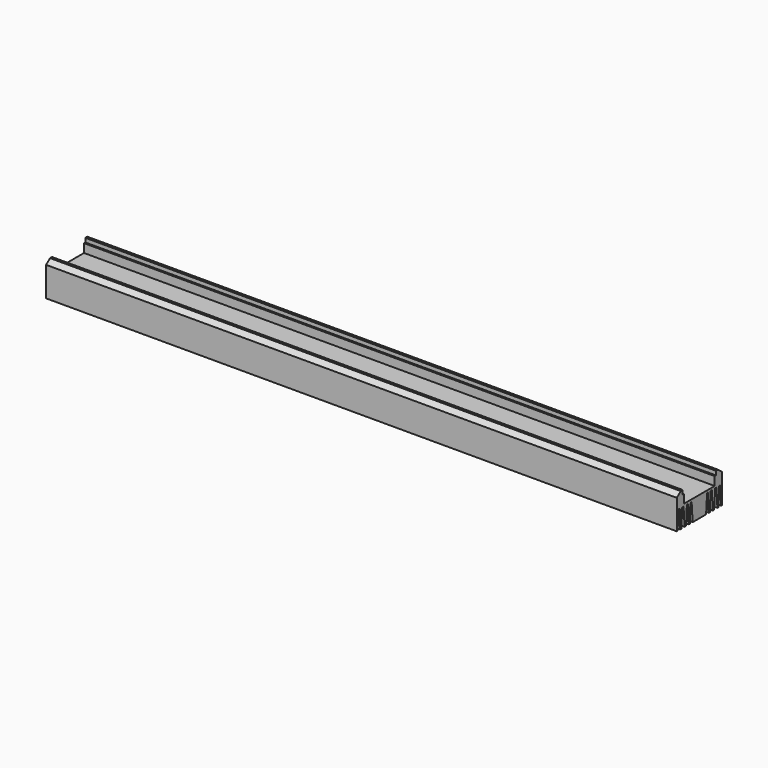
from build123d import *

# Parameters (mm, degrees)
F1_DEPTH = 600


with BuildPart() as f1:
    # F0 (on Right) → F1 (new body)
    with BuildSketch(Plane.YZ):
        Polygon((-19.76107, 15.892943), (-22.115579, 15.892943), (-26.824599, 12.192998), (-26.824599, -15.892943), (-25.926842, -15.892943), (-24.826841, 1.698052), (-23.326841, 1.698052), (-22.926842, -15.892943), (-21.428242, -15.892943), (-20.329641, 1.698052), (-18.83157, 1.698052), (-17.527344, -15.892943), (-15.748855, -15.892943), (-14.859609, 1.698052), (-13.318252, 1.698052), (-12.547573, -15.892943), (-11.30263, -15.892943), (-10.16482, 1.698052), (-9.227727, 1.698052), (-7.982784, -15.892943), (7.982784, -15.892943), (9.227727, 1.698052), (10.16482, 1.698052), (11.30263, -15.892943), (12.547573, -15.892943), (13.318252, 1.698052), (14.859609, 1.698052), (15.748855, -15.892943), (17.527344, -15.892943), (18.83157, 1.698052), (20.329641, 1.698052), (21.428242, -15.892943), (22.926842, -15.892943), (23.326841, 1.698052), (24.826841, 1.698052), (25.926842, -15.892943), (26.824599, -15.892943), (26.824599, 12.192998), (22.115579, 15.892943), (19.76107, 15.892943), (19.76107, 12.024819), (18.247455, 12.024819), (18.247455, 3.784032), (0, 3.784032), (-18.247455, 3.784032), (-18.247455, 12.024819), (-19.76107, 12.024819), align=None)
    extrude(amount=F1_DEPTH)


solid = f1.part
